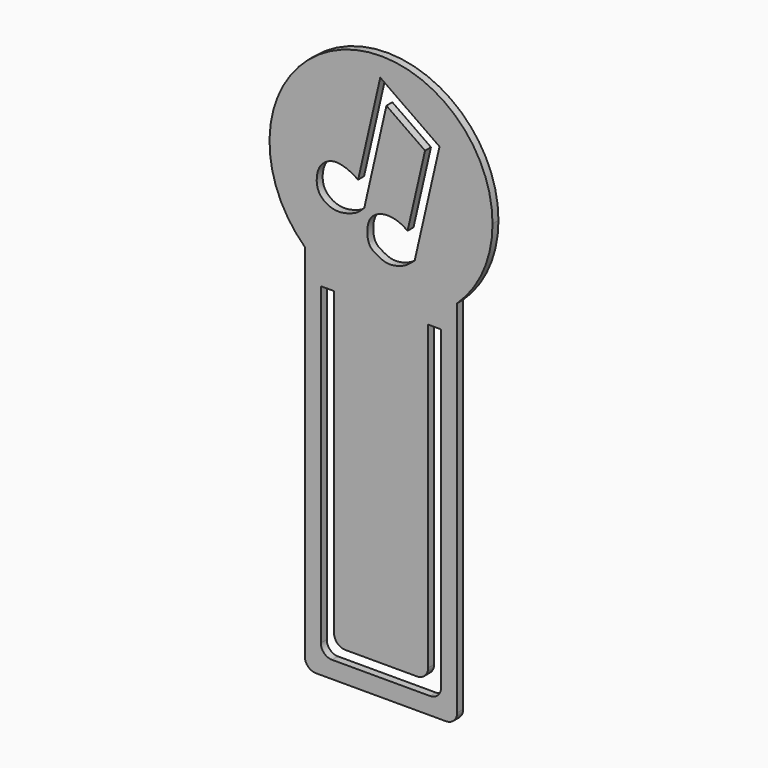
from build123d import *

# Parameters (mm, degrees)
F1_DEPTH      = 1
F2_R          = 1.5
F3_R          = 1.5
F4_R          = 1.5
F5_R          = 1.5
F7_DEPTH      = 2
F7_DEPTH_BACK = 2


with BuildPart() as f1:
    # F0 (on Front) → F1 (new body)
    with BuildSketch(Plane.XZ):
        with BuildLine():
            Line((-12.582927011, 26.8263705075), (-33.082927011, 26.8263705075))
            ThreePointArc((-33.082927011, 26.8263705075), (-22.833574452, 22.7763292614), (-12.582927011, 26.8230920433))
            Line((-12.582927011, 26.8230920433), (-12.582927011, 26.8263705075))
        make_face()
        with BuildLine():
            ThreePointArc((-12.582927011, 26.8230920433), (-9.0702939094, 31.8065605846), (-7.8311755758, 37.7763290696))
            ThreePointArc((-7.8311755758, 37.7763290696), (-28.7987432743, 51.5381652757), (-33.082927011, 26.8263705075))
            Line((-33.082927011, 26.8263705075), (-12.582927011, 26.8263705075))
            Line((-12.582927011, 26.8263705075), (-12.582927011, 26.8230920433))
        make_face()
        with BuildLine():
            ThreePointArc((-12.582927011, 26.8230920433), (-22.833574452, 22.7763292614), (-33.082927011, 26.8263705075))
            Line((-33.082927011, 26.8263705075), (-33.082927011, -23.1736294925))
            Line((-33.082927011, -23.1736294925), (-12.582927011, -23.1736294925))
            Line((-12.582927011, -23.1736294925), (-12.582927011, 26.8230920433))
        make_face()
        Polygon((-30.924927011, -19.1308837384), (-30.924927011, 22.8768941015), (-29.1468191239, 22.8768941015), (-29.1468191239, -19.1308837384), (-16.4909848869, -19.1308837384), (-16.4909848869, 23.0227541178), (-14.7409848869, 23.0227541178), (-14.7409848869, -19.1308837384), (-14.7409848869, -20.8812095225), (-16.4909848869, -20.8812095225), (-29.1468191239, -20.8812095225), (-30.924927011, -20.8812095225), align=None, mode=Mode.SUBTRACT)
    extrude(amount=F1_DEPTH)

    # F2
    f2_edges = [f1.edges().sort_by_distance(p)[0] for p in [
        (-33.082927, -0.5, -23.173629),
        (-29.146819, -0.5, -19.130884),
    ]]
    fillet(f2_edges, radius=F2_R)

    # F3
    f3_edges = [f1.edges().sort_by_distance(p)[0] for p in [
        (-12.582927, -0.5, -23.173629),
        (-16.490985, -0.5, -19.130884),
    ]]
    fillet(f3_edges, radius=F3_R)

    # F4
    f4_edges = [f1.edges().sort_by_distance(p)[0] for p in [
        (-14.740985, -0.5, -20.88121),
    ]]
    fillet(f4_edges, radius=F4_R)

    # F5
    f5_edges = [f1.edges().sort_by_distance(p)[0] for p in [
        (-30.924927, -0.5, -20.88121),
    ]]
    fillet(f5_edges, radius=F5_R)

    # F6 (on Front) → F7 (cut, two sides)
    with BuildSketch(Plane.XZ) as f7_sk:
        with BuildLine():
            Line((-22.933350876, 50.1851327717), (-25.9076971561, 37.1225401759))
            add(Edge.make_bspline(
                [(-25.0797867775, 34.0562053025), (-25.3609096182, 33.7585758872), (-25.9441535641, 33.1410858455), (-27.3182486706, 32.6325086478), (-28.6685969713, 32.3924554697), (-30.1767118002, 32.7656618857), (-31.4376451635, 33.9753036652), (-31.5552921939, 35.6990873468), (-31.0846106959, 37.3228691535), (-29.5080944822, 38.3618798355), (-27.9575632828, 38.1700241498), (-26.7953208757, 37.6759371361), (-26.1938047499, 37.3009165185), (-25.9076971561, 37.1225401759)],
                knots=[0, 0, 0, 0, 0.084248841, 0.1747905874, 0.2631617867, 0.3557672882, 0.4523448771, 0.5493064131, 0.6459783357, 0.7454841832, 0.8383514519, 0.9231128225, 1, 1, 1, 1], degree=3))
            Line((-25.0797867775, 34.0562053025), (-22.1039076981, 47.1255295732))
            Line((-22.1039076981, 47.1255295732), (-16.9097921359, 43.4896490436))
            Line((-16.9097921359, 43.4896490436), (-19.2603488405, 33.22483214))
            add(Edge.make_bspline(
                [(-18.3031838387, 30.0086420029), (-18.7477703665, 29.6189181536), (-19.6158886751, 28.8579251286), (-21.3020885386, 28.4383556198), (-22.414443159, 28.5059758099), (-23.7090984524, 29.1968199204), (-24.6315072114, 29.9020393492), (-24.8118553907, 32.312074703), (-23.7838236389, 33.8688571638), (-21.8398009443, 34.3519133542), (-20.1468753191, 33.8435589575), (-19.562668302, 33.4389105276), (-19.2603488405, 33.22483214)],
                knots=[0, 0, 0, 0, 0.1066431649, 0.2103744203, 0.2951230217, 0.3903583058, 0.4750417804, 0.5948311616, 0.7014173376, 0.8116627094, 0.9167484333, 1, 1, 1, 1], degree=3))
            Line((-18.3031838387, 30.0086420029), (-14.9608775973, 44.6044020355))
            Line((-14.9608775973, 44.6044020355), (-22.933350876, 50.1851327717))
        make_face()
        Polygon((-7.1242011416, 31.8749807051), (-3.9289291017, 42.9637953639), (-3.6031708381, 44.3944450197), (-4.0062949993, 45.5680526793), align=None)
    extrude(amount=F7_DEPTH, mode=Mode.SUBTRACT)
    extrude(f7_sk.sketch, amount=-F7_DEPTH_BACK, mode=Mode.SUBTRACT)


solid = f1.part
